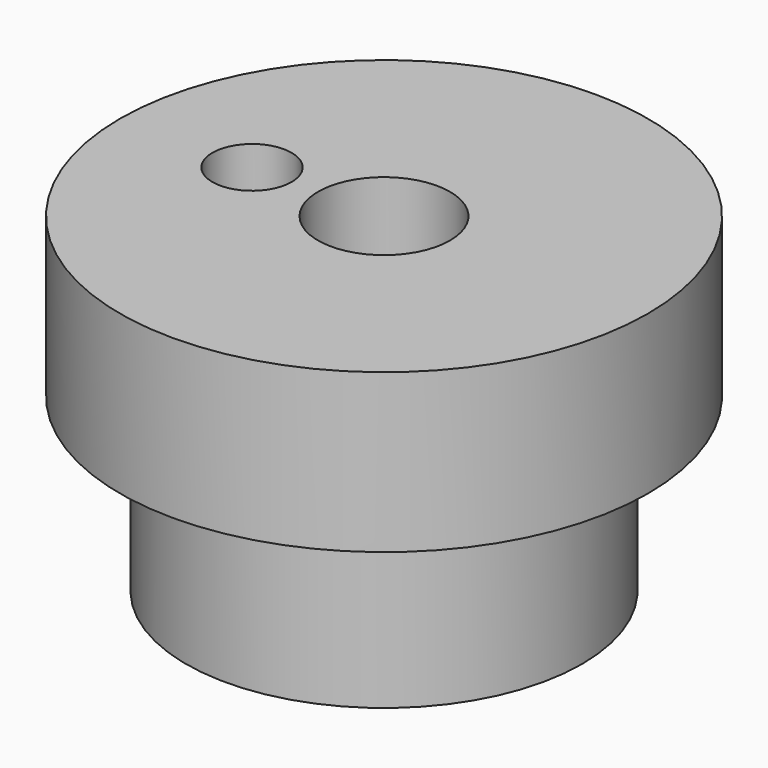
from build123d import *

# Parameters (mm, degrees)
F2_R     = 5
F3_DEPTH = 25.001
F4_R     = 3
F5_DEPTH = 25.001


with BuildPart() as f1:
    # F0 (on Front) → F1 (revolve)
    with BuildSketch(Plane.XZ):
        Polygon((20, 0), (0, 0), (0, -25), (15, -25), (15, -1), (17.1, -1), (17.1, -12), (20, -12), align=None)
    revolve(axis=Axis((0, 0, -20.761178), (0, 0, -1)))

    # F2 (on Top) → F3 (cut, through all)
    with BuildSketch(Plane.XY):
        Circle(F2_R)
    extrude(amount=-F3_DEPTH, mode=Mode.SUBTRACT)

    # F4 (on face) → F5 (cut, through all)
    with BuildSketch(Plane.XY):
        with Locations((-10, 0)):
            Circle(F4_R)
    extrude(amount=-F5_DEPTH, mode=Mode.SUBTRACT)


solid = f1.part
